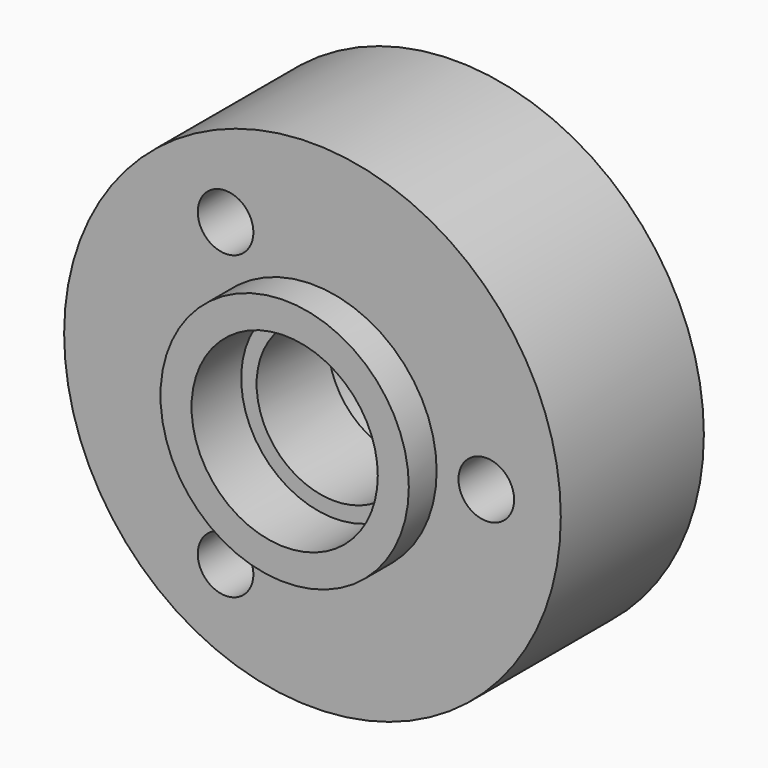
from build123d import *

# Parameters (mm, degrees)
F0_R     = 12.7
F0_R_2   = 3.9751
F1_DEPTH = 9.144
F2_R     = 6.35
F2_R_2   = 3.9751
F3_DEPTH = 1.778
F4_R     = 4.7625
F4_R_2   = 3.9751
F5_DEPTH = 3.175
F6_R     = 4.7625
F6_R_2   = 3.9751
F7_DEPTH = 3.175
F9_D     = 2.8448
F9_DEPTH = 5.08
F9_TIP   = 0.8546641445


with BuildPart() as f1:
    # F0 (on Front) → F1 (new body)
    with BuildSketch(Plane.XZ):
        Circle(F0_R)
        Circle(F0_R_2, mode=Mode.SUBTRACT)
    extrude(amount=F1_DEPTH)

    # F2 (on face) → F3 (join)
    with BuildSketch(Plane.XZ.offset(9.144)):
        Circle(F2_R)
        Circle(F2_R_2, mode=Mode.SUBTRACT)
    extrude(amount=F3_DEPTH)

    # F4 (on face) → F5 (cut)
    with BuildSketch(Plane.XZ.offset(10.922)):
        Circle(F4_R)
        Circle(F4_R_2, mode=Mode.SUBTRACT)
    extrude(amount=-F5_DEPTH, mode=Mode.SUBTRACT)

    # F6 (on face) → F7 (cut)
    with BuildSketch(Plane(origin=(0, 0, 0), x_dir=(-1, 0, 0), z_dir=(0, 1, 0))):
        Circle(F6_R)
        Circle(F6_R_2, mode=Mode.SUBTRACT)
    extrude(amount=-F7_DEPTH, mode=Mode.SUBTRACT)

    # F9
    with Locations(Plane.XZ.offset(9.144)):
        with Locations((8.89, 0), (-4.445, 7.6989658396), (-4.445, -7.6989658396)):
            Hole(F9_D / 2, depth=F9_DEPTH)
            with Locations((0, 0, -(F9_DEPTH + F9_TIP / 2))):  # 118° drill point
                Cone(0, F9_D / 2, F9_TIP, mode=Mode.SUBTRACT)


solid = f1.part
